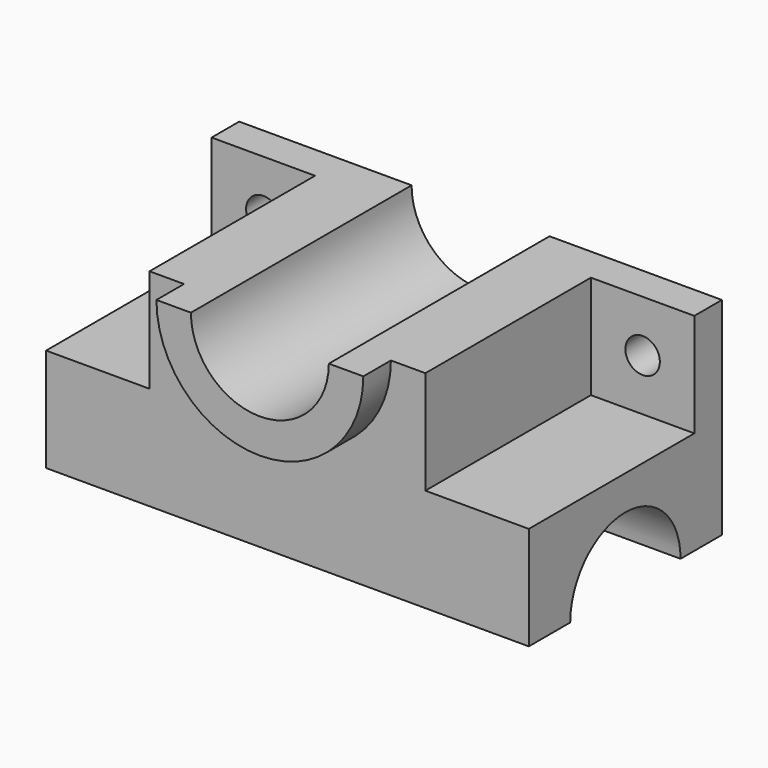
from build123d import *

# Parameters (mm, degrees)
F0_W      = 140
F0_H      = 70
F1_DEPTH  = 60
F3_DEPTH  = 140.001
F4_W      = 30
F4_H      = 60
F5_DEPTH  = 30
F6_R      = 5
F7_DEPTH  = 10.001
F8_W      = 30
F8_H      = 60
F9_DEPTH  = 30
F10_R     = 5
F11_DEPTH = 10.001
F13_DEPTH = 10
F14_DEPTH = 70.001


with BuildPart() as f1:
    # F0 (on Top) → F1 (new body)
    with BuildSketch(Plane.XY):
        Rectangle(F0_W, F0_H)
    extrude(amount=F1_DEPTH)

    # F2 (on face) → F3 (cut, through all)
    with BuildSketch(Plane.YZ.offset(70)):
        with BuildLine():
            Line((-20, 0), (20, 0))
            ThreePointArc((20, 0), (0, 20), (-20, 0))
        make_face()
    extrude(amount=-F3_DEPTH, mode=Mode.SUBTRACT)

    # F4 (on face) → F5 (cut)
    with BuildSketch(Plane.XY.offset(60)):
        with Locations((55, -5)):
            Rectangle(F4_W, F4_H)
    extrude(amount=-F5_DEPTH, mode=Mode.SUBTRACT)

    # F6 (on face) → F7 (cut, through all)
    with BuildSketch(Plane.XZ.offset(-25)):
        with Locations((55, 45)):
            Circle(F6_R)
    extrude(amount=-F7_DEPTH, mode=Mode.SUBTRACT)

    # F8 (on face) → F9 (cut)
    with BuildSketch(Plane.XY.offset(60)):
        with Locations((-55, -5)):
            Rectangle(F8_W, F8_H)
    extrude(amount=-F9_DEPTH, mode=Mode.SUBTRACT)

    # F10 (on face) → F11 (cut, through all)
    with BuildSketch(Plane.XZ.offset(-25)):
        with Locations((-55, 45)):
            Circle(F10_R)
    extrude(amount=-F11_DEPTH, mode=Mode.SUBTRACT)

    # F12 (on face) → F13 (join)
    with BuildSketch(Plane.XZ.offset(35)):
        with BuildLine():
            ThreePointArc((-30, 60), (0, 30), (30, 60))
            Line((30, 60), (20, 60))
            ThreePointArc((20, 60), (0, 40), (-20, 60))
            Line((-20, 60), (-30, 60))
        make_face()
    extrude(amount=F13_DEPTH)

    # F14 (cut, through all): a face of the model
    f14_faces = [f1.faces().sort_by_distance(p)[0] for p in [
        (0, -35, 51.5117363684),
    ]]
    extrude(f14_faces, amount=-F14_DEPTH, mode=Mode.SUBTRACT)


solid = f1.part
